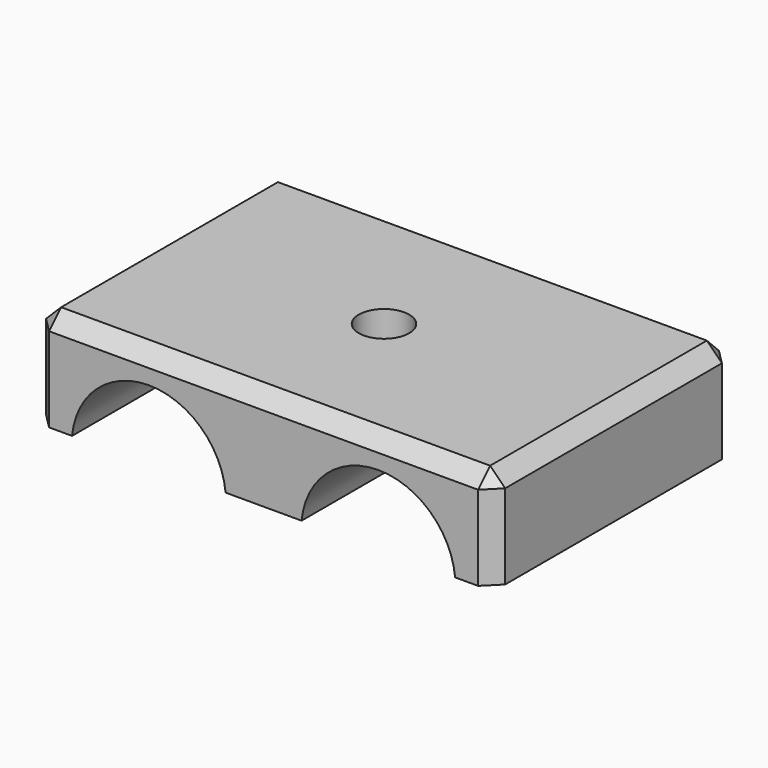
from build123d import *

# Parameters (mm, degrees)
SKETCH002_W             = 61
SKETCH002_H             = 40
PAD001_DEPTH            = 13.25
POCKET_DEPTH            = 40
SKETCH007_R             = 3.35
POCKET001_DEPTH         = 13.25
CHAMFER_SIZE            = 2
BODY002_PLACEMENT_ANGLE = 180


with BuildPart() as part:
    # Sketch002 → Pad001 (new body)
    with BuildSketch(Plane.XY):
        Rectangle(SKETCH002_W, SKETCH002_H)
    extrude(amount=PAD001_DEPTH)

    # Sketch003 (on Face3 of Pad001) → Pocket (cut)
    with BuildSketch(Plane.XZ.offset(20)):
        with BuildLine():
            ThreePointArc((-25.5, 14.25), (-15.25, 4), (-5, 14.25))
            Line((-25.5, 14.25), (-5, 14.25))
        make_face()
        with BuildLine():
            ThreePointArc((5, 14.25), (15.25, 4), (25.5, 14.25))
            Line((5, 14.25), (25.5, 14.25))
        make_face()
    extrude(amount=-POCKET_DEPTH, mode=Mode.SUBTRACT)


with BuildPart() as part_1:
    # Body001 placement: moved
    add(part.part.moved(Location((0, 0, 7))))

    # Sketch007 (on DatumPlane) → Pocket001 (cut)
    with BuildSketch(Plane(origin=(0, 0, 7), x_dir=(1, 0, 0), z_dir=(0, 0, -1))):
        Circle(SKETCH007_R)
    extrude(amount=-POCKET001_DEPTH, mode=Mode.SUBTRACT)

    # Chamfer
    chamfer_edges = [part_1.edges().sort_by_distance(p)[0] for p in [
        (30.5, 0, 7),
        (0, -20, 7),
        (-30.5, 0, 7),
        (0, 20, 7),
        (30.5, -20, 13.625),
        (30.5, 20, 13.625),
        (-30.5, 20, 13.625),
        (-30.5, -20, 13.625),
    ]]
    chamfer(chamfer_edges, length=CHAMFER_SIZE)


with BuildPart() as part_2:
    # Body002 placement: moved
    add(part_1.part.moved(Location((0, 0, 50))).rotate(Axis((0, 0, 50), (1, 0, 0)), BODY002_PLACEMENT_ANGLE))


solid = part_2.part
